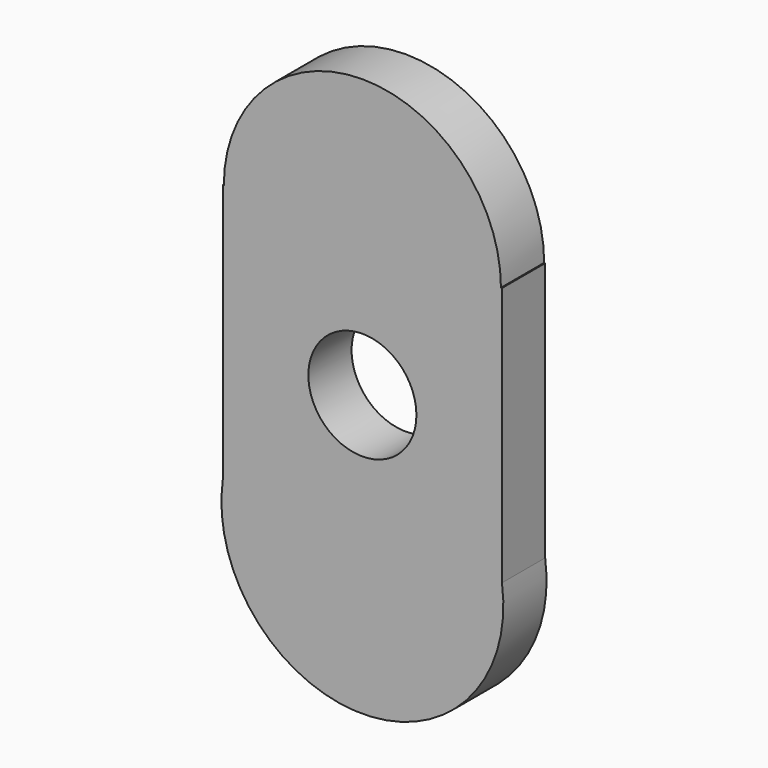
from build123d import *

# Parameters (mm, degrees)
F0_R     = 3
F1_DEPTH = 3


with BuildPart() as f1:
    # F0 (on Front) → F1 (new body)
    with BuildSketch(Plane.XZ):
        with BuildLine():
            Line((7.75, -6.655555), (7.75, 7.75))
            Line((7.75, 7.75), (7.693235, 7.75))
            ThreePointArc((7.693235, 7.75), (0, 15.443235), (-7.693235, 7.75))
            Line((-7.693235, 7.75), (-7.75, 7.75))
            Line((-7.75, 7.75), (-7.75, -6.655555))
            ThreePointArc((-7.75, -6.655555), (0, -15.576897), (7.75, -6.655555))
        make_face()
        Circle(F0_R, mode=Mode.SUBTRACT)
    extrude(amount=F1_DEPTH)


solid = f1.part
